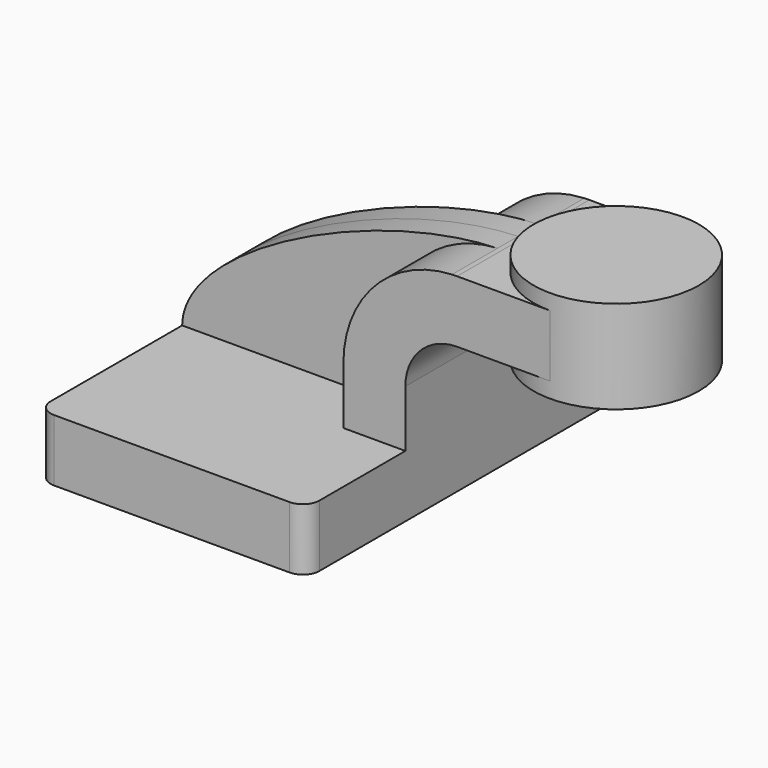
from build123d import *

# Parameters (mm, degrees)
F1_DEPTH = 63.5
F0_W     = 25.4
F0_H     = 19.05
F2_DEPTH = 25.4
F3_DEPTH = 7.9375
F5_R     = 5.08


with BuildPart() as f1:
    # F0 (on Front) → F1 (new body, symmetric)
    with BuildSketch(Plane.XZ):
        Polygon((-41.275, 9.525), (-41.275, -9.525), (41.275, -9.525), (41.275, 9.525), (22.225, 9.525), align=None)
    extrude(amount=F1_DEPTH, both=True)

    # F0 (on Front) → F2 (join, symmetric)
    with BuildSketch(Plane.XZ):
        with Locations((73.025, 52.4002)):
            Rectangle(F0_W, F0_H)
        with BuildLine():
            Line((22.225, 9.525), (41.275, 9.525))
            Line((41.275, 9.525), (41.275, 27.0002))
            ThreePointArc((41.275, 27.0002), (45.9246798487, 38.2255201513), (57.15, 42.8752))
            Line((57.15, 42.8752), (60.325, 42.8752))
            Line((60.325, 42.8752), (60.325, 61.9252))
            Line((60.325, 61.9252), (57.15, 61.9252))
            add(Edge.make_bspline(
                [(55.6078581678, 61.8911361234), (56.1258190219, 61.9074850682), (56.63993318, 61.918866137), (57.15, 61.9252)],
                knots=[110.0024937652, 110.0024937652, 110.0024937652, 110.0024937652, 111.5045361635, 111.5045361635, 111.5045361635, 111.5045361635], degree=3))
            ThreePointArc((55.6078581678, 61.8911361234), (31.9149556322, 51.1445194304), (22.225, 27.0002))
            Line((22.225, 27.0002), (22.225, 9.525))
        make_face()
    extrude(amount=F2_DEPTH, both=True)

    # F0 (on Front) → F3 (join, symmetric)
    with BuildSketch(Plane.XZ):
        with BuildLine():
            add(Edge.make_bspline(
                [(-41.275, 9.525), (-40.8895493479, 32.8517610266), (17.6748506275, 60.6938165945), (55.6078581678, 61.8911361234)],
                knots=[0, 0, 0, 0, 110.0024937652, 110.0024937652, 110.0024937652, 110.0024937652], degree=3))
            Line((-41.275, 9.525), (22.225, 9.525))
            Line((22.225, 9.525), (22.225, 27.0002))
            ThreePointArc((22.225, 27.0002), (31.9149556322, 51.1445194304), (55.6078581678, 61.8911361234))
        make_face()
    extrude(amount=F3_DEPTH, both=True)

    # F0 (on Front) → F4 (revolve)
    with BuildSketch(Plane.XZ):
        Polygon((85.725, 66.675), (85.725, 61.9252), (85.725, 42.8752), (85.725, 38.1), (111.125, 38.1), (111.125, 66.675), align=None)
    revolve(axis=Axis((85.725, 0, 52.3875), (0, 0, 1)))

    # F5
    f5_edges = [f1.edges().sort_by_distance(p)[0] for p in [
        (41.275, -63.5, 0),
        (-41.275, -63.5, 0),
        (-41.275, 63.5, 0),
        (41.275, 63.5, 0),
    ]]
    fillet(f5_edges, radius=F5_R)


solid = f1.part
